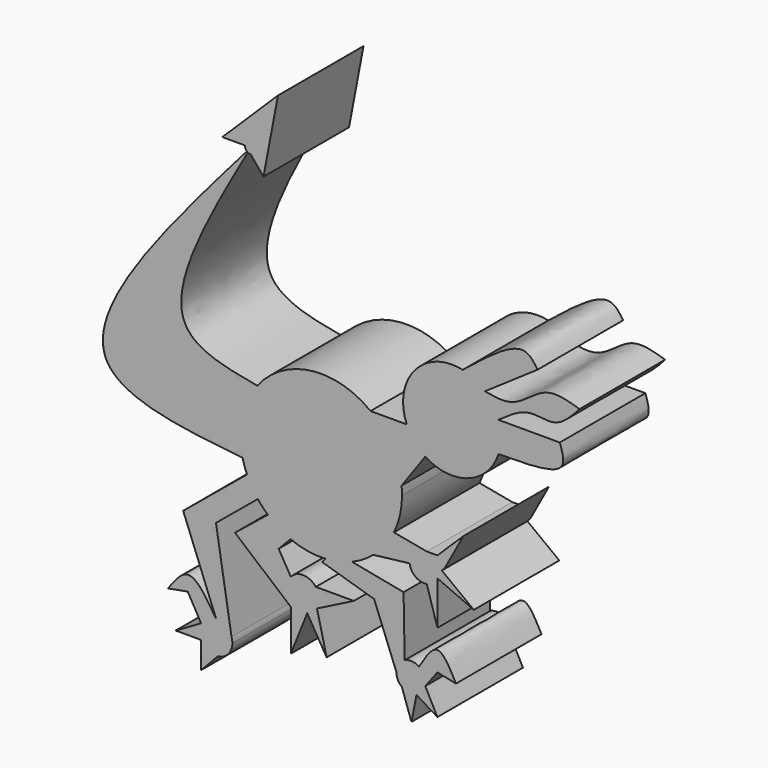
from build123d import *

# Parameters (mm, degrees)
F1_DEPTH = 25.4
F2_DEPTH = 25.4


with BuildPart() as f1:
    # F0 (on Front) → F1 (new body)
    with BuildSketch(Plane.XZ):
        with BuildLine():
            ThreePointArc((-10.317141878, -14.7110905701), (-8.8891343563, -10.6428108201), (-8.4049927941, -6.3584540944))
            ThreePointArc((-8.4049927941, -6.3584540944), (-8.4309672341, -5.360108508), (-8.5088202723, -4.3644642513))
            ThreePointArc((-8.5088202723, -4.3644642513), (-10.8391058041, 2.9978462301), (-15.8816773073, 8.8464630683))
            ThreePointArc((-15.8816773073, 8.8464630683), (-30.0449127805, 12.6847915495), (-42.782238168, 5.3984655497))
            ThreePointArc((-42.782238168, 5.3984655497), (-46.3692471393, -2.3001536732), (-46.2839165353, -10.7929794683))
            ThreePointArc((-46.2839165353, -10.7929794683), (-45.8269223241, -12.4024072574), (-45.2315469665, -13.9659384214))
            ThreePointArc((-45.2315469665, -13.9659384214), (-44.0883152347, -16.2007865448), (-42.663273282, -18.2673731897))
            ThreePointArc((-42.663273282, -18.2673731897), (-41.5271116859, -19.5777942525), (-40.2773277415, -20.7803359884))
            ThreePointArc((-40.2773277415, -20.7803359884), (-37.7245194251, -22.6734422012), (-34.8943834927, -24.1194754087))
            ThreePointArc((-34.8943834927, -24.1194754087), (-30.8058305733, -25.2886307823), (-26.5602015737, -25.5290962884))
            ThreePointArc((-26.5602015737, -25.5290962884), (-23.3564316962, -25.0817282782), (-20.2732470116, -24.1028249301))
            ThreePointArc((-20.2732470116, -24.1028249301), (-17.6114930893, -22.7521196808), (-15.1912642958, -21.0051705686))
            ThreePointArc((-15.1912642958, -21.0051705686), (-12.4243982907, -18.1135307153), (-10.317141878, -14.7110905701))
        make_face()
        with BuildLine():
            ThreePointArc((-15.8816773073, 8.8464630683), (-10.8391058041, 2.9978462301), (-8.5088202723, -4.3644642513))
            Line((-8.5088202723, -4.3644642513), (-2.8818418748, 3.5401044438))
            ThreePointArc((-2.8818418748, 3.5401044438), (-5.4848651872, 5.8589869224), (-7.2815100024, 8.8464630683))
            Line((-7.2815100024, 8.8464630683), (-15.8816773073, 8.8464630683))
        make_face()
        with BuildLine():
            Line((-2.5272942145, -16.1766717585), (-10.317141878, -14.7110905701))
            ThreePointArc((-10.317141878, -14.7110905701), (-12.4243982907, -18.1135307153), (-15.1912642958, -21.0051705686))
            Line((-15.1912642958, -21.0051705686), (-6.595222683, -19.9798429555))
            ThreePointArc((-6.595222683, -19.9798429555), (-5.5244976996, -17.0479623301), (-2.5272942145, -16.1766717585))
        make_face()
        with BuildLine():
            ThreePointArc((-7.2815100024, 8.8464630683), (-5.4848651872, 5.8589869224), (-2.8818418748, 3.5401044438))
            ThreePointArc((-2.8818418748, 3.5401044438), (7.3420956634, 2.3359359346), (14.4987036615, 9.7360631324))
            ThreePointArc((14.4987036615, 9.7360631324), (14.9099626113, 11.4788272396), (15.0481461519, 13.2641188029))
            ThreePointArc((15.0481461519, 13.2641188029), (14.9025332914, 15.0964792455), (14.4693498445, 16.8828442693))
            ThreePointArc((14.4693498445, 16.8828442693), (13.1969911718, 19.551149313), (11.2915923167, 21.8112828492))
            ThreePointArc((11.2915923167, 21.8112828492), (8.8289908338, 23.5417219724), (6.0041321981, 24.5804708887))
            ThreePointArc((6.0041321981, 24.5804708887), (-5.4180453501, 20.7491087832), (-7.2815100024, 8.8464630683))
        make_face()
        with BuildLine():
            Line((0, -16.1766717585), (-2.5272942145, -16.1766717585))
            ThreePointArc((-2.5272942145, -16.1766717585), (-1.7744453908, -16.4098145576), (-1.0940541419, -16.8075640574))
            Line((-1.0940541419, -16.8075640574), (0, -16.1766717585))
        make_face()
        with BuildLine():
            ThreePointArc((-1.0940541419, -16.8075640574), (-1.7744453908, -16.4098145576), (-2.5272942145, -16.1766717585))
            ThreePointArc((-2.5272942145, -16.1766717585), (-5.5244976996, -17.0479623301), (-6.595222683, -19.9798429555))
            ThreePointArc((-6.595222683, -19.9798429555), (-5.2090932767, -22.3552201244), (-2.5272942145, -22.9649128468))
            ThreePointArc((-2.5272942145, -22.9649128468), (-1.0135785793, -22.2718095064), (0, -20.9510575508))
            ThreePointArc((0, -20.9510575508), (0.1829567993, -20.415319612), (0.2759342545, -19.8568900978))
            ThreePointArc((0.2759342545, -19.8568900978), (0.2848357789, -19.7139642751), (0.2878046551, -19.5707923026))
            ThreePointArc((0.2878046551, -19.5707923026), (0.2150879696, -18.8658164742), (0, -18.1905270545))
            ThreePointArc((0, -18.1905270545), (-0.3463114208, -17.5763123991), (-0.8101511154, -17.0452342685))
            ThreePointArc((-0.8101511154, -17.0452342685), (-0.9489153778, -16.9225919119), (-1.0940541419, -16.8075640574))
        make_face()
        with BuildLine():
            ThreePointArc((-46.2839165353, -10.7929794683), (-46.3692471393, -2.3001536732), (-42.782238168, 5.3984655497))
            add(Edge.make_bspline(
                [(-42.782238168, 5.3984655497), (-50.4101313232, 6.7712875658), (-69.4183998435, 10.2219961336), (-54.3308385796, 37.1478973373), (-45.035584657, 53.4333997652)],
                knots=[0, 0, 0, 0, 0.3967211144, 0.9849567581, 0.9849567581, 0.9849567581, 0.9849567581], degree=3))
            ThreePointArc((-45.035584657, 53.4333997652), (-45.1553221098, 53.509835896), (-45.2669399393, 53.5977051161))
            add(Edge.make_bspline(
                [(-46.2839165353, -10.7929794683), (-61.2467750745, -9.2344599156), (-96.4386607831, -5.5969593475), (-64.1568441045, 31.8955007742), (-45.2669399393, 53.5977051161)],
                knots=[0, 0, 0, 0, 0.4217262639, 0.9905184841, 0.9905184841, 0.9905184841, 0.9905184841], degree=3))
        make_face()
        with BuildLine():
            ThreePointArc((15.0481461519, 13.2641188029), (14.9099626113, 11.4788272396), (14.4987036615, 9.7360631324))
            add(Edge.make_bspline(
                [(14.4987036615, 9.7360631324), (21.0672640019, 9.7727808183), (31.4557706403, 9.8160387354), (29.7060416989, 14.9917320616), (29.0678534657, 16.8828442693)],
                knots=[0, 0, 0, 0, 0.6341136901, 1, 1, 1, 1], degree=3))
            Line((29.0678534657, 16.8828442693), (14.4693498445, 16.8828442693))
            ThreePointArc((14.4693498445, 16.8828442693), (14.9025332914, 15.0964792455), (15.0481461519, 13.2641188029))
        make_face()
        with BuildLine():
            Line((-8.037216381, -26.4771269308), (-20.2732470116, -24.1028249301))
            ThreePointArc((-20.2732470116, -24.1028249301), (-23.3564316962, -25.0817282782), (-26.5602015737, -25.5290962884))
            Line((-26.5602015737, -25.5290962884), (-27.3639667706, -26.4771269308))
            Line((-27.3639667706, -26.4771269308), (-15.0313274193, -30.1817744583))
            Line((-15.0313274193, -30.1817744583), (-9.7421017714, -43.7454735534))
            ThreePointArc((-9.7421017714, -43.7454735534), (-9.2111062456, -41.9019655541), (-7.7808349532, -40.6233717867))
            Line((-7.7808349532, -40.6233717867), (-8.037216381, -26.4771269308))
        make_face()
        with BuildLine():
            Line((0, -16.1766717585), (-1.0940541419, -16.8075640574))
            ThreePointArc((-1.0940541419, -16.8075640574), (-0.9489153778, -16.9225919119), (-0.8101511154, -17.0452342685))
            Line((-0.8101511154, -17.0452342685), (0, -16.1766717585))
        make_face()
        with BuildLine():
            Line((6.1659067869, -10.1297069341), (0, -16.1766717585))
            Line((0, -16.1766717585), (-0.8101511154, -17.0452342685))
            ThreePointArc((-0.8101511154, -17.0452342685), (-0.3463114208, -17.5763123991), (0, -18.1905270545))
            Line((0, -18.1905270545), (1.7788821735, -18.1905270545))
            Line((1.7788821735, -18.1905270545), (6.1659067869, -10.1297069341))
        make_face()
        with BuildLine():
            add(Edge.make_bspline(
                [(-45.035584657, 53.4333997652), (-44.7978725184, 53.8498769957), (-44.5599742084, 54.2664881806), (-44.3220883608, 54.6830967069)],
                knots=[0.9849567581, 0.9849567581, 0.9849567581, 0.9849567581, 1, 1, 1, 1], degree=3))
            ThreePointArc((-45.035584657, 53.4333997652), (-44.6911837278, 53.2922020233), (-44.3220883608, 53.2440625131))
            ThreePointArc((-44.3220883608, 53.2440625131), (-43.304537524, 53.6655458701), (-42.883054167, 54.6830967069))
            ThreePointArc((-42.883054167, 54.6830967069), (-44.3220883608, 56.1221309006), (-45.7611225545, 54.6830967069))
            Line((-45.7611225545, 54.6830967069), (-44.3220883608, 54.6830967069))
        make_face()
        with BuildLine():
            ThreePointArc((-45.2669399393, 53.5977051161), (-45.1553221098, 53.509835896), (-45.035584657, 53.4333997652))
            add(Edge.make_bspline(
                [(-45.035584657, 53.4333997652), (-44.7978725184, 53.8498769957), (-44.5599742084, 54.2664881806), (-44.3220883608, 54.6830967069)],
                knots=[0.9849567581, 0.9849567581, 0.9849567581, 0.9849567581, 1, 1, 1, 1], degree=3))
            add(Edge.make_bspline(
                [(-45.2669399393, 53.5977051161), (-44.9520535535, 53.9594713077), (-44.6370692183, 54.3212854748), (-44.3220883608, 54.6830967069)],
                knots=[0.9905184841, 0.9905184841, 0.9905184841, 0.9905184841, 1, 1, 1, 1], degree=3))
        make_face()
        with BuildLine():
            add(Edge.make_bspline(
                [(6.0041321981, 24.5804708887), (11.5779230816, 29.0535632585), (20.073830525, 35.9026136352), (22.8346394763, 31.7973275313), (23.7827915698, 30.3891189396)],
                knots=[0, 0, 0, 0, 0.6563040162, 1, 1, 1, 1], degree=3))
            ThreePointArc((6.0041321981, 24.5804708887), (8.8289908338, 23.5417219724), (11.2915923167, 21.8112828492))
            Line((11.2915923167, 21.8112828492), (23.7827915698, 30.3891189396))
        make_face()
        with BuildLine():
            ThreePointArc((0, -20.9510575508), (-1.0135785793, -22.2718095064), (-2.5272942145, -22.9649128468))
            Line((-2.5272942145, -22.9649128468), (0, -31.3257725124))
            Line((0, -31.3257725124), (0, -20.9510575508))
        make_face()
        with BuildLine():
            ThreePointArc((-42.663273282, -18.2673731897), (-44.0883152347, -16.2007865448), (-45.2315469665, -13.9659384214))
            Line((-45.2315469665, -13.9659384214), (-60.383946816, -26.4771269308))
            Line((-60.383946816, -26.4771269308), (-52.5956978003, -46.4493257287))
            ThreePointArc((-52.5956978003, -46.4493257287), (-50.3193539682, -47.191493907), (-48.9006153339, -49.1201554984))
            Line((-48.9006153339, -49.1201554984), (-52.5956978003, -26.4771269308))
            Line((-52.5956978003, -26.4771269308), (-42.663273282, -18.2673731897))
        make_face()
        with BuildLine():
            ThreePointArc((-45.7611225545, 54.6830967069), (-45.6317625837, 54.0867974191), (-45.2669399393, 53.5977051161))
            add(Edge.make_bspline(
                [(-45.2669399393, 53.5977051161), (-44.9520535535, 53.9594713077), (-44.6370692183, 54.3212854748), (-44.3220883608, 54.6830967069)],
                knots=[0.9905184841, 0.9905184841, 0.9905184841, 0.9905184841, 1, 1, 1, 1], degree=3))
            Line((-44.3220883608, 54.6830967069), (-45.7611225545, 54.6830967069))
        make_face()
        with BuildLine():
            ThreePointArc((-42.883054167, 54.6830967069), (-43.304537524, 53.6655458701), (-44.3220883608, 53.2440625131))
            Line((-44.3220883608, 53.2440625131), (-41.3135975938, 49.5733971904))
            Line((-41.3135975938, 49.5733971904), (-37.8762930632, 67.6781833172))
            Line((-37.8762930632, 67.6781833172), (-51.0889552534, 54.6830967069))
            Line((-51.0889552534, 54.6830967069), (-45.7611225545, 54.6830967069))
            ThreePointArc((-45.7611225545, 54.6830967069), (-44.3220883608, 56.1221309006), (-42.883054167, 54.6830967069))
        make_face()
        with BuildLine():
            add(Edge.make_bspline(
                [(11.2915923167, 21.8112828492), (13.62309693, 21.3772479334), (18.5919460531, 20.4522426822), (25.5051596059, 27.9559669849), (31.0600171448, 26.2356197706), (33.7656885386, 25.397669524)],
                knots=[0, 0, 0, 0, 0.3119758594, 0.6648757916, 1, 1, 1, 1], degree=3))
            ThreePointArc((11.2915923167, 21.8112828492), (13.1969911718, 19.551149313), (14.4693498445, 16.8828442693))
            add(Edge.make_bspline(
                [(14.4693498445, 16.8828442693), (16.8995398204, 18.6270513712), (21.4252940367, 21.8752964564), (28.3186484382, 19.3614618264), (31.8889949965, 23.3179873855), (33.7656885386, 25.397669524)],
                knots=[0, 0, 0, 0, 0.3548864812, 0.6609067622, 1, 1, 1, 1], degree=3))
        make_face()
        with BuildLine():
            Line((-37.7032174177, -27.0537417382), (-34.8943834927, -24.1194754087))
            ThreePointArc((-34.8943834927, -24.1194754087), (-37.7245194251, -22.6734422012), (-40.2773277415, -20.7803359884))
            Line((-40.2773277415, -20.7803359884), (-48.0635613203, -27.0537417382))
            Line((-48.0635613203, -27.0537417382), (-34.8244979978, -38.2781662047))
            Line((-34.8244979978, -38.2781662047), (-34.8244979978, -48.0635650456))
            Line((-34.8244979978, -48.0635650456), (-30.9174830976, -38.313619063))
            ThreePointArc((-30.9174830976, -38.313619063), (-35.2546286639, -36.5926719786), (-34.8244979978, -31.946439296))
            Line((-34.8244979978, -31.946439296), (-37.7032174177, -27.0537417382))
        make_face()
        with BuildLine():
            ThreePointArc((-4.3640217392, -40.8552785975), (-6.041781581, -40.2877891975), (-7.7808349532, -40.6233717867))
            ThreePointArc((-7.7808349532, -40.6233717867), (-9.2111062456, -41.9019655541), (-9.7421017714, -43.7454735534))
            ThreePointArc((-9.7421017714, -43.7454735534), (-9.3992228973, -45.2484782518), (-8.4384328741, -46.4540783419))
            ThreePointArc((-8.4384328741, -46.4540783419), (-6.7710024109, -47.1756464909), (-4.9676535535, -46.9544727084))
            ThreePointArc((-4.9676535535, -46.9544727084), (-3.6135188749, -45.9634428798), (-2.8836941256, -44.4524244536))
            ThreePointArc((-2.8836941256, -44.4524244536), (-2.8290889511, -44.1008218929), (-2.8108230451, -43.7454735534))
            ThreePointArc((-2.8108230451, -43.7454735534), (-3.2237188997, -42.1049208214), (-4.3640217392, -40.8552785975))
        make_face()
        with BuildLine():
            ThreePointArc((0.2759342545, -19.8568900978), (0.1829567993, -20.415319612), (0, -20.9510575508))
            Line((0, -20.9510575508), (8.63417238, -24.7512944043))
            Line((8.63417238, -24.7512944043), (1.0555013201, -18.9925609141))
            Line((1.0555013201, -18.9925609141), (0.2759342545, -19.8568900978))
        make_face()
        with BuildLine():
            Line((1.0555013201, -18.9925609141), (0, -18.1905270545))
            ThreePointArc((0, -18.1905270545), (0.2150879696, -18.8658164742), (0.2878046551, -19.5707923026))
            ThreePointArc((0.2878046551, -19.5707923026), (0.2848357789, -19.7139642751), (0.2759342545, -19.8568900978))
            Line((0.2759342545, -19.8568900978), (1.0555013201, -18.9925609141))
        make_face()
        Polygon((1.7788821735, -18.1905270545), (0, -18.1905270545), (1.0555013201, -18.9925609141), align=None)
        with BuildLine():
            add(Edge.make_bspline(
                [(-4.3640217392, -40.8552785975), (-2.9006061726, -38.3948084198), (0.0949539954, -33.3531507798), (2.9486809362, -38.7814754649), (4.4042211957, -41.5464788675)],
                knots=[0, 0, 0, 0, 0.4898310647, 1, 1, 1, 1], degree=3))
            ThreePointArc((-4.3640217392, -40.8552785975), (-3.2237188997, -42.1049208214), (-2.8108230451, -43.7454735534))
            ThreePointArc((-2.8108230451, -43.7454735534), (-2.8290889511, -44.1008218929), (-2.8836941256, -44.4524244536))
            add(Edge.make_bspline(
                [(-2.8836941256, -44.4524244536), (-1.9224627504, -43.1760735646), (-0.9612313752, -41.8997226757), (0, -40.6233717867)],
                knots=[0, 0, 0, 0, 4.7934680697, 4.7934680697, 4.7934680697, 4.7934680697], degree=3))
            Line((0, -40.6233717867), (4.4042211957, -41.5464788675))
        make_face()
        with BuildLine():
            ThreePointArc((-48.9006153339, -49.1201554984), (-50.3193539682, -47.191493907), (-52.5956978003, -46.4493257287))
            ThreePointArc((-52.5956978003, -46.4493257287), (-54.6706750491, -47.0333987455), (-56.1221241951, -48.6271262155))
            ThreePointArc((-56.1221241951, -48.6271262155), (-56.5289072444, -50.3650052146), (-56.1221241951, -52.1028842137))
            ThreePointArc((-56.1221241951, -52.1028842137), (-54.4928776546, -53.8000628821), (-52.1851001483, -54.2572528899))
            ThreePointArc((-52.1851001483, -54.2572528899), (-49.696930301, -52.9781046683), (-48.6974701431, -50.3650052146))
            Line((-48.6974701431, -50.3650052146), (-48.9006153339, -49.1201554984))
        make_face()
        with BuildLine():
            ThreePointArc((-56.1221241951, -48.6271262155), (-54.6706750491, -47.0333987455), (-52.5956978003, -46.4493257287))
            add(Edge.make_bspline(
                [(-52.5956978003, -46.4493257287), (-54.7784073944, -43.0229968915), (-58.7913070475, -36.7237100604), (-62.3740101019, -41.6490599687), (-64.0079975128, -43.8953973353)],
                knots=[0, 0, 0, 0, 0.5439232931, 1, 1, 1, 1], degree=3))
            Line((-64.0079975128, -43.8953973353), (-59.3101680279, -43.0229968915))
            add(Edge.make_bspline(
                [(-56.1221241951, -48.6271262155), (-57.1848054727, -46.7590831075), (-58.2474867503, -44.8910399995), (-59.3101680279, -43.0229968915)],
                knots=[0, 0, 0, 0, 6.4474715169, 6.4474715169, 6.4474715169, 6.4474715169], degree=3))
        make_face()
        with BuildLine():
            ThreePointArc((-28.8785121035, -32.1485681597), (-31.8045553529, -30.6663935023), (-34.8244979978, -31.946439296))
            ThreePointArc((-34.8244979978, -31.946439296), (-35.2546286639, -36.5926719786), (-30.9174830976, -38.313619063))
            ThreePointArc((-30.9174830976, -38.313619063), (-29.5981115415, -37.6685871873), (-28.611624828, -36.5806297487))
            ThreePointArc((-28.611624828, -36.5806297487), (-28.1887067586, -35.6077395609), (-28.0441555202, -34.5567971501))
            ThreePointArc((-28.0441555202, -34.5567971501), (-28.2586544961, -33.2824622473), (-28.8785121035, -32.1485681597))
        make_face()
        with BuildLine():
            ThreePointArc((-4.9676535535, -46.9544727084), (-6.7710024109, -47.1756464909), (-8.4384328741, -46.4540783419))
            Line((-8.4384328741, -46.4540783419), (-6.1659081839, -52.9974512756))
            Line((-6.1659081839, -52.9974512756), (-4.9676535535, -46.9544727084))
        make_face()
        with BuildLine():
            ThreePointArc((-48.6974701431, -50.3650052146), (-48.7485901283, -49.7343470694), (-48.9006153339, -49.1201554984))
            Line((-48.9006153339, -49.1201554984), (-48.6974701431, -50.3650052146))
        make_face()
        with BuildLine():
            ThreePointArc((-56.1221241951, -52.1028842137), (-56.5289072444, -50.3650052146), (-56.1221241951, -48.6271262155))
            Line((-56.1221241951, -48.6271262155), (-62.1660463512, -52.1028842137))
            Line((-62.1660463512, -52.1028842137), (-56.1221241951, -52.1028842137))
        make_face()
        with BuildLine():
            Line((-19.8582334477, -32.1485681597), (-28.8785121035, -32.1485681597))
            ThreePointArc((-28.8785121035, -32.1485681597), (-28.2586544961, -33.2824622473), (-28.0441555202, -34.5567971501))
            ThreePointArc((-28.0441555202, -34.5567971501), (-28.1887067586, -35.6077395609), (-28.611624828, -36.5806297487))
            Line((-28.611624828, -36.5806297487), (-19.8582334477, -32.1485681597))
        make_face()
        with BuildLine():
            ThreePointArc((-28.611624828, -36.5806297487), (-29.5981115415, -37.6685871873), (-30.9174830976, -38.313619063))
            Line((-30.9174830976, -38.313619063), (-26.3057665585, -46.0563353092))
            Line((-26.3057665585, -46.0563353092), (-28.611624828, -36.5806297487))
        make_face()
        with BuildLine():
            Line((0, -49.975961992), (-2.8836941256, -44.4524244536))
            ThreePointArc((-2.8836941256, -44.4524244536), (-3.6135188749, -45.9634428798), (-4.9676535535, -46.9544727084))
            Line((-4.9676535535, -46.9544727084), (0, -49.975961992))
        make_face()
        with BuildLine():
            ThreePointArc((-52.1851001483, -54.2572528899), (-54.4928776546, -53.8000628821), (-56.1221241951, -52.1028842137))
            Line((-56.1221241951, -52.1028842137), (-56.1221241951, -58.4245696664))
            Line((-56.1221241951, -58.4245696664), (-52.1851001483, -54.2572528899))
        make_face()
    extrude(amount=F1_DEPTH)

    # F0 (on Front) → F2 (join)
    with BuildSketch(Plane.XZ):
        with BuildLine():
            ThreePointArc((-10.317141878, -14.7110905701), (-8.8891343563, -10.6428108201), (-8.4049927941, -6.3584540944))
            ThreePointArc((-8.4049927941, -6.3584540944), (-8.4309672341, -5.360108508), (-8.5088202723, -4.3644642513))
            ThreePointArc((-8.5088202723, -4.3644642513), (-10.8391058041, 2.9978462301), (-15.8816773073, 8.8464630683))
            ThreePointArc((-15.8816773073, 8.8464630683), (-30.0449127805, 12.6847915495), (-42.782238168, 5.3984655497))
            ThreePointArc((-42.782238168, 5.3984655497), (-46.3692471393, -2.3001536732), (-46.2839165353, -10.7929794683))
            ThreePointArc((-46.2839165353, -10.7929794683), (-45.8269223241, -12.4024072574), (-45.2315469665, -13.9659384214))
            ThreePointArc((-45.2315469665, -13.9659384214), (-44.0883152347, -16.2007865448), (-42.663273282, -18.2673731897))
            ThreePointArc((-42.663273282, -18.2673731897), (-41.5271116859, -19.5777942525), (-40.2773277415, -20.7803359884))
            ThreePointArc((-40.2773277415, -20.7803359884), (-37.7245194251, -22.6734422012), (-34.8943834927, -24.1194754087))
            ThreePointArc((-34.8943834927, -24.1194754087), (-30.8058305733, -25.2886307823), (-26.5602015737, -25.5290962884))
            ThreePointArc((-26.5602015737, -25.5290962884), (-23.3564316962, -25.0817282782), (-20.2732470116, -24.1028249301))
            ThreePointArc((-20.2732470116, -24.1028249301), (-17.6114930893, -22.7521196808), (-15.1912642958, -21.0051705686))
            ThreePointArc((-15.1912642958, -21.0051705686), (-12.4243982907, -18.1135307153), (-10.317141878, -14.7110905701))
        make_face()
        with BuildLine():
            ThreePointArc((-15.8816773073, 8.8464630683), (-10.8391058041, 2.9978462301), (-8.5088202723, -4.3644642513))
            Line((-8.5088202723, -4.3644642513), (-2.8818418748, 3.5401044438))
            ThreePointArc((-2.8818418748, 3.5401044438), (-5.4848651872, 5.8589869224), (-7.2815100024, 8.8464630683))
            Line((-7.2815100024, 8.8464630683), (-15.8816773073, 8.8464630683))
        make_face()
        with BuildLine():
            Line((-2.5272942145, -16.1766717585), (-10.317141878, -14.7110905701))
            ThreePointArc((-10.317141878, -14.7110905701), (-12.4243982907, -18.1135307153), (-15.1912642958, -21.0051705686))
            Line((-15.1912642958, -21.0051705686), (-6.595222683, -19.9798429555))
            ThreePointArc((-6.595222683, -19.9798429555), (-5.5244976996, -17.0479623301), (-2.5272942145, -16.1766717585))
        make_face()
        with BuildLine():
            ThreePointArc((-7.2815100024, 8.8464630683), (-5.4848651872, 5.8589869224), (-2.8818418748, 3.5401044438))
            ThreePointArc((-2.8818418748, 3.5401044438), (7.3420956634, 2.3359359346), (14.4987036615, 9.7360631324))
            ThreePointArc((14.4987036615, 9.7360631324), (14.9099626113, 11.4788272396), (15.0481461519, 13.2641188029))
            ThreePointArc((15.0481461519, 13.2641188029), (14.9025332914, 15.0964792455), (14.4693498445, 16.8828442693))
            ThreePointArc((14.4693498445, 16.8828442693), (13.1969911718, 19.551149313), (11.2915923167, 21.8112828492))
            ThreePointArc((11.2915923167, 21.8112828492), (8.8289908338, 23.5417219724), (6.0041321981, 24.5804708887))
            ThreePointArc((6.0041321981, 24.5804708887), (-5.4180453501, 20.7491087832), (-7.2815100024, 8.8464630683))
        make_face()
        with BuildLine():
            Line((0, -16.1766717585), (-2.5272942145, -16.1766717585))
            ThreePointArc((-2.5272942145, -16.1766717585), (-1.7744453908, -16.4098145576), (-1.0940541419, -16.8075640574))
            Line((-1.0940541419, -16.8075640574), (0, -16.1766717585))
        make_face()
        with BuildLine():
            ThreePointArc((-1.0940541419, -16.8075640574), (-1.7744453908, -16.4098145576), (-2.5272942145, -16.1766717585))
            ThreePointArc((-2.5272942145, -16.1766717585), (-5.5244976996, -17.0479623301), (-6.595222683, -19.9798429555))
            ThreePointArc((-6.595222683, -19.9798429555), (-5.2090932767, -22.3552201244), (-2.5272942145, -22.9649128468))
            ThreePointArc((-2.5272942145, -22.9649128468), (-1.0135785793, -22.2718095064), (0, -20.9510575508))
            ThreePointArc((0, -20.9510575508), (0.1829567993, -20.415319612), (0.2759342545, -19.8568900978))
            ThreePointArc((0.2759342545, -19.8568900978), (0.2848357789, -19.7139642751), (0.2878046551, -19.5707923026))
            ThreePointArc((0.2878046551, -19.5707923026), (0.2150879696, -18.8658164742), (0, -18.1905270545))
            ThreePointArc((0, -18.1905270545), (-0.3463114208, -17.5763123991), (-0.8101511154, -17.0452342685))
            ThreePointArc((-0.8101511154, -17.0452342685), (-0.9489153778, -16.9225919119), (-1.0940541419, -16.8075640574))
        make_face()
        with BuildLine():
            ThreePointArc((-46.2839165353, -10.7929794683), (-46.3692471393, -2.3001536732), (-42.782238168, 5.3984655497))
            add(Edge.make_bspline(
                [(-42.782238168, 5.3984655497), (-50.4101313232, 6.7712875658), (-69.4183998435, 10.2219961336), (-54.3308385796, 37.1478973373), (-45.035584657, 53.4333997652)],
                knots=[0, 0, 0, 0, 0.3967211144, 0.9849567581, 0.9849567581, 0.9849567581, 0.9849567581], degree=3))
            ThreePointArc((-45.035584657, 53.4333997652), (-45.1553221098, 53.509835896), (-45.2669399393, 53.5977051161))
            add(Edge.make_bspline(
                [(-46.2839165353, -10.7929794683), (-61.2467750745, -9.2344599156), (-96.4386607831, -5.5969593475), (-64.1568441045, 31.8955007742), (-45.2669399393, 53.5977051161)],
                knots=[0, 0, 0, 0, 0.4217262639, 0.9905184841, 0.9905184841, 0.9905184841, 0.9905184841], degree=3))
        make_face()
        with BuildLine():
            ThreePointArc((15.0481461519, 13.2641188029), (14.9099626113, 11.4788272396), (14.4987036615, 9.7360631324))
            add(Edge.make_bspline(
                [(14.4987036615, 9.7360631324), (21.0672640019, 9.7727808183), (31.4557706403, 9.8160387354), (29.7060416989, 14.9917320616), (29.0678534657, 16.8828442693)],
                knots=[0, 0, 0, 0, 0.6341136901, 1, 1, 1, 1], degree=3))
            Line((29.0678534657, 16.8828442693), (14.4693498445, 16.8828442693))
            ThreePointArc((14.4693498445, 16.8828442693), (14.9025332914, 15.0964792455), (15.0481461519, 13.2641188029))
        make_face()
        with BuildLine():
            Line((-8.037216381, -26.4771269308), (-20.2732470116, -24.1028249301))
            ThreePointArc((-20.2732470116, -24.1028249301), (-23.3564316962, -25.0817282782), (-26.5602015737, -25.5290962884))
            Line((-26.5602015737, -25.5290962884), (-27.3639667706, -26.4771269308))
            Line((-27.3639667706, -26.4771269308), (-15.0313274193, -30.1817744583))
            Line((-15.0313274193, -30.1817744583), (-9.7421017714, -43.7454735534))
            ThreePointArc((-9.7421017714, -43.7454735534), (-9.2111062456, -41.9019655541), (-7.7808349532, -40.6233717867))
            Line((-7.7808349532, -40.6233717867), (-8.037216381, -26.4771269308))
        make_face()
        with BuildLine():
            Line((0, -16.1766717585), (-1.0940541419, -16.8075640574))
            ThreePointArc((-1.0940541419, -16.8075640574), (-0.9489153778, -16.9225919119), (-0.8101511154, -17.0452342685))
            Line((-0.8101511154, -17.0452342685), (0, -16.1766717585))
        make_face()
        with BuildLine():
            Line((6.1659067869, -10.1297069341), (0, -16.1766717585))
            Line((0, -16.1766717585), (-0.8101511154, -17.0452342685))
            ThreePointArc((-0.8101511154, -17.0452342685), (-0.3463114208, -17.5763123991), (0, -18.1905270545))
            Line((0, -18.1905270545), (1.7788821735, -18.1905270545))
            Line((1.7788821735, -18.1905270545), (6.1659067869, -10.1297069341))
        make_face()
        with BuildLine():
            add(Edge.make_bspline(
                [(-45.035584657, 53.4333997652), (-44.7978725184, 53.8498769957), (-44.5599742084, 54.2664881806), (-44.3220883608, 54.6830967069)],
                knots=[0.9849567581, 0.9849567581, 0.9849567581, 0.9849567581, 1, 1, 1, 1], degree=3))
            ThreePointArc((-45.035584657, 53.4333997652), (-44.6911837278, 53.2922020233), (-44.3220883608, 53.2440625131))
            ThreePointArc((-44.3220883608, 53.2440625131), (-43.304537524, 53.6655458701), (-42.883054167, 54.6830967069))
            ThreePointArc((-42.883054167, 54.6830967069), (-44.3220883608, 56.1221309006), (-45.7611225545, 54.6830967069))
            Line((-45.7611225545, 54.6830967069), (-44.3220883608, 54.6830967069))
        make_face()
        with BuildLine():
            ThreePointArc((-45.2669399393, 53.5977051161), (-45.1553221098, 53.509835896), (-45.035584657, 53.4333997652))
            add(Edge.make_bspline(
                [(-45.035584657, 53.4333997652), (-44.7978725184, 53.8498769957), (-44.5599742084, 54.2664881806), (-44.3220883608, 54.6830967069)],
                knots=[0.9849567581, 0.9849567581, 0.9849567581, 0.9849567581, 1, 1, 1, 1], degree=3))
            add(Edge.make_bspline(
                [(-45.2669399393, 53.5977051161), (-44.9520535535, 53.9594713077), (-44.6370692183, 54.3212854748), (-44.3220883608, 54.6830967069)],
                knots=[0.9905184841, 0.9905184841, 0.9905184841, 0.9905184841, 1, 1, 1, 1], degree=3))
        make_face()
        with BuildLine():
            add(Edge.make_bspline(
                [(6.0041321981, 24.5804708887), (11.5779230816, 29.0535632585), (20.073830525, 35.9026136352), (22.8346394763, 31.7973275313), (23.7827915698, 30.3891189396)],
                knots=[0, 0, 0, 0, 0.6563040162, 1, 1, 1, 1], degree=3))
            ThreePointArc((6.0041321981, 24.5804708887), (8.8289908338, 23.5417219724), (11.2915923167, 21.8112828492))
            Line((11.2915923167, 21.8112828492), (23.7827915698, 30.3891189396))
        make_face()
        with BuildLine():
            ThreePointArc((0, -20.9510575508), (-1.0135785793, -22.2718095064), (-2.5272942145, -22.9649128468))
            Line((-2.5272942145, -22.9649128468), (0, -31.3257725124))
            Line((0, -31.3257725124), (0, -20.9510575508))
        make_face()
        with BuildLine():
            ThreePointArc((-42.663273282, -18.2673731897), (-44.0883152347, -16.2007865448), (-45.2315469665, -13.9659384214))
            Line((-45.2315469665, -13.9659384214), (-60.383946816, -26.4771269308))
            Line((-60.383946816, -26.4771269308), (-52.5956978003, -46.4493257287))
            ThreePointArc((-52.5956978003, -46.4493257287), (-50.3193539682, -47.191493907), (-48.9006153339, -49.1201554984))
            Line((-48.9006153339, -49.1201554984), (-52.5956978003, -26.4771269308))
            Line((-52.5956978003, -26.4771269308), (-42.663273282, -18.2673731897))
        make_face()
        with BuildLine():
            ThreePointArc((-45.7611225545, 54.6830967069), (-45.6317625837, 54.0867974191), (-45.2669399393, 53.5977051161))
            add(Edge.make_bspline(
                [(-45.2669399393, 53.5977051161), (-44.9520535535, 53.9594713077), (-44.6370692183, 54.3212854748), (-44.3220883608, 54.6830967069)],
                knots=[0.9905184841, 0.9905184841, 0.9905184841, 0.9905184841, 1, 1, 1, 1], degree=3))
            Line((-44.3220883608, 54.6830967069), (-45.7611225545, 54.6830967069))
        make_face()
        with BuildLine():
            ThreePointArc((-42.883054167, 54.6830967069), (-43.304537524, 53.6655458701), (-44.3220883608, 53.2440625131))
            Line((-44.3220883608, 53.2440625131), (-41.3135975938, 49.5733971904))
            Line((-41.3135975938, 49.5733971904), (-37.8762930632, 67.6781833172))
            Line((-37.8762930632, 67.6781833172), (-51.0889552534, 54.6830967069))
            Line((-51.0889552534, 54.6830967069), (-45.7611225545, 54.6830967069))
            ThreePointArc((-45.7611225545, 54.6830967069), (-44.3220883608, 56.1221309006), (-42.883054167, 54.6830967069))
        make_face()
        with BuildLine():
            add(Edge.make_bspline(
                [(11.2915923167, 21.8112828492), (13.62309693, 21.3772479334), (18.5919460531, 20.4522426822), (25.5051596059, 27.9559669849), (31.0600171448, 26.2356197706), (33.7656885386, 25.397669524)],
                knots=[0, 0, 0, 0, 0.3119758594, 0.6648757916, 1, 1, 1, 1], degree=3))
            ThreePointArc((11.2915923167, 21.8112828492), (13.1969911718, 19.551149313), (14.4693498445, 16.8828442693))
            add(Edge.make_bspline(
                [(14.4693498445, 16.8828442693), (16.8995398204, 18.6270513712), (21.4252940367, 21.8752964564), (28.3186484382, 19.3614618264), (31.8889949965, 23.3179873855), (33.7656885386, 25.397669524)],
                knots=[0, 0, 0, 0, 0.3548864812, 0.6609067622, 1, 1, 1, 1], degree=3))
        make_face()
        with BuildLine():
            Line((-37.7032174177, -27.0537417382), (-34.8943834927, -24.1194754087))
            ThreePointArc((-34.8943834927, -24.1194754087), (-37.7245194251, -22.6734422012), (-40.2773277415, -20.7803359884))
            Line((-40.2773277415, -20.7803359884), (-48.0635613203, -27.0537417382))
            Line((-48.0635613203, -27.0537417382), (-34.8244979978, -38.2781662047))
            Line((-34.8244979978, -38.2781662047), (-34.8244979978, -48.0635650456))
            Line((-34.8244979978, -48.0635650456), (-30.9174830976, -38.313619063))
            ThreePointArc((-30.9174830976, -38.313619063), (-35.2546286639, -36.5926719786), (-34.8244979978, -31.946439296))
            Line((-34.8244979978, -31.946439296), (-37.7032174177, -27.0537417382))
        make_face()
        with BuildLine():
            ThreePointArc((-4.3640217392, -40.8552785975), (-6.041781581, -40.2877891975), (-7.7808349532, -40.6233717867))
            ThreePointArc((-7.7808349532, -40.6233717867), (-9.2111062456, -41.9019655541), (-9.7421017714, -43.7454735534))
            ThreePointArc((-9.7421017714, -43.7454735534), (-9.3992228973, -45.2484782518), (-8.4384328741, -46.4540783419))
            ThreePointArc((-8.4384328741, -46.4540783419), (-6.7710024109, -47.1756464909), (-4.9676535535, -46.9544727084))
            ThreePointArc((-4.9676535535, -46.9544727084), (-3.6135188749, -45.9634428798), (-2.8836941256, -44.4524244536))
            ThreePointArc((-2.8836941256, -44.4524244536), (-2.8290889511, -44.1008218929), (-2.8108230451, -43.7454735534))
            ThreePointArc((-2.8108230451, -43.7454735534), (-3.2237188997, -42.1049208214), (-4.3640217392, -40.8552785975))
        make_face()
        with BuildLine():
            ThreePointArc((0.2759342545, -19.8568900978), (0.1829567993, -20.415319612), (0, -20.9510575508))
            Line((0, -20.9510575508), (8.63417238, -24.7512944043))
            Line((8.63417238, -24.7512944043), (1.0555013201, -18.9925609141))
            Line((1.0555013201, -18.9925609141), (0.2759342545, -19.8568900978))
        make_face()
        with BuildLine():
            Line((1.0555013201, -18.9925609141), (0, -18.1905270545))
            ThreePointArc((0, -18.1905270545), (0.2150879696, -18.8658164742), (0.2878046551, -19.5707923026))
            ThreePointArc((0.2878046551, -19.5707923026), (0.2848357789, -19.7139642751), (0.2759342545, -19.8568900978))
            Line((0.2759342545, -19.8568900978), (1.0555013201, -18.9925609141))
        make_face()
        Polygon((1.7788821735, -18.1905270545), (0, -18.1905270545), (1.0555013201, -18.9925609141), align=None)
        with BuildLine():
            add(Edge.make_bspline(
                [(-4.3640217392, -40.8552785975), (-2.9006061726, -38.3948084198), (0.0949539954, -33.3531507798), (2.9486809362, -38.7814754649), (4.4042211957, -41.5464788675)],
                knots=[0, 0, 0, 0, 0.4898310647, 1, 1, 1, 1], degree=3))
            ThreePointArc((-4.3640217392, -40.8552785975), (-3.2237188997, -42.1049208214), (-2.8108230451, -43.7454735534))
            ThreePointArc((-2.8108230451, -43.7454735534), (-2.8290889511, -44.1008218929), (-2.8836941256, -44.4524244536))
            add(Edge.make_bspline(
                [(-2.8836941256, -44.4524244536), (-1.9224627504, -43.1760735646), (-0.9612313752, -41.8997226757), (0, -40.6233717867)],
                knots=[0, 0, 0, 0, 4.7934680697, 4.7934680697, 4.7934680697, 4.7934680697], degree=3))
            Line((0, -40.6233717867), (4.4042211957, -41.5464788675))
        make_face()
        with BuildLine():
            ThreePointArc((-48.9006153339, -49.1201554984), (-50.3193539682, -47.191493907), (-52.5956978003, -46.4493257287))
            ThreePointArc((-52.5956978003, -46.4493257287), (-54.6706750491, -47.0333987455), (-56.1221241951, -48.6271262155))
            ThreePointArc((-56.1221241951, -48.6271262155), (-56.5289072444, -50.3650052146), (-56.1221241951, -52.1028842137))
            ThreePointArc((-56.1221241951, -52.1028842137), (-54.4928776546, -53.8000628821), (-52.1851001483, -54.2572528899))
            ThreePointArc((-52.1851001483, -54.2572528899), (-49.696930301, -52.9781046683), (-48.6974701431, -50.3650052146))
            Line((-48.6974701431, -50.3650052146), (-48.9006153339, -49.1201554984))
        make_face()
        with BuildLine():
            ThreePointArc((-56.1221241951, -48.6271262155), (-54.6706750491, -47.0333987455), (-52.5956978003, -46.4493257287))
            add(Edge.make_bspline(
                [(-52.5956978003, -46.4493257287), (-54.7784073944, -43.0229968915), (-58.7913070475, -36.7237100604), (-62.3740101019, -41.6490599687), (-64.0079975128, -43.8953973353)],
                knots=[0, 0, 0, 0, 0.5439232931, 1, 1, 1, 1], degree=3))
            Line((-64.0079975128, -43.8953973353), (-59.3101680279, -43.0229968915))
            add(Edge.make_bspline(
                [(-56.1221241951, -48.6271262155), (-57.1848054727, -46.7590831075), (-58.2474867503, -44.8910399995), (-59.3101680279, -43.0229968915)],
                knots=[0, 0, 0, 0, 6.4474715169, 6.4474715169, 6.4474715169, 6.4474715169], degree=3))
        make_face()
        with BuildLine():
            ThreePointArc((-28.8785121035, -32.1485681597), (-31.8045553529, -30.6663935023), (-34.8244979978, -31.946439296))
            ThreePointArc((-34.8244979978, -31.946439296), (-35.2546286639, -36.5926719786), (-30.9174830976, -38.313619063))
            ThreePointArc((-30.9174830976, -38.313619063), (-29.5981115415, -37.6685871873), (-28.611624828, -36.5806297487))
            ThreePointArc((-28.611624828, -36.5806297487), (-28.1887067586, -35.6077395609), (-28.0441555202, -34.5567971501))
            ThreePointArc((-28.0441555202, -34.5567971501), (-28.2586544961, -33.2824622473), (-28.8785121035, -32.1485681597))
        make_face()
        with BuildLine():
            ThreePointArc((-4.9676535535, -46.9544727084), (-6.7710024109, -47.1756464909), (-8.4384328741, -46.4540783419))
            Line((-8.4384328741, -46.4540783419), (-6.1659081839, -52.9974512756))
            Line((-6.1659081839, -52.9974512756), (-4.9676535535, -46.9544727084))
        make_face()
        with BuildLine():
            ThreePointArc((-48.6974701431, -50.3650052146), (-48.7485901283, -49.7343470694), (-48.9006153339, -49.1201554984))
            Line((-48.9006153339, -49.1201554984), (-48.6974701431, -50.3650052146))
        make_face()
        with BuildLine():
            ThreePointArc((-56.1221241951, -52.1028842137), (-56.5289072444, -50.3650052146), (-56.1221241951, -48.6271262155))
            Line((-56.1221241951, -48.6271262155), (-62.1660463512, -52.1028842137))
            Line((-62.1660463512, -52.1028842137), (-56.1221241951, -52.1028842137))
        make_face()
        with BuildLine():
            Line((-19.8582334477, -32.1485681597), (-28.8785121035, -32.1485681597))
            ThreePointArc((-28.8785121035, -32.1485681597), (-28.2586544961, -33.2824622473), (-28.0441555202, -34.5567971501))
            ThreePointArc((-28.0441555202, -34.5567971501), (-28.1887067586, -35.6077395609), (-28.611624828, -36.5806297487))
            Line((-28.611624828, -36.5806297487), (-19.8582334477, -32.1485681597))
        make_face()
        with BuildLine():
            ThreePointArc((-28.611624828, -36.5806297487), (-29.5981115415, -37.6685871873), (-30.9174830976, -38.313619063))
            Line((-30.9174830976, -38.313619063), (-26.3057665585, -46.0563353092))
            Line((-26.3057665585, -46.0563353092), (-28.611624828, -36.5806297487))
        make_face()
        with BuildLine():
            Line((0, -49.975961992), (-2.8836941256, -44.4524244536))
            ThreePointArc((-2.8836941256, -44.4524244536), (-3.6135188749, -45.9634428798), (-4.9676535535, -46.9544727084))
            Line((-4.9676535535, -46.9544727084), (0, -49.975961992))
        make_face()
        with BuildLine():
            ThreePointArc((-52.1851001483, -54.2572528899), (-54.4928776546, -53.8000628821), (-56.1221241951, -52.1028842137))
            Line((-56.1221241951, -52.1028842137), (-56.1221241951, -58.4245696664))
            Line((-56.1221241951, -58.4245696664), (-52.1851001483, -54.2572528899))
        make_face()
    extrude(amount=F2_DEPTH)


solid = f1.part
